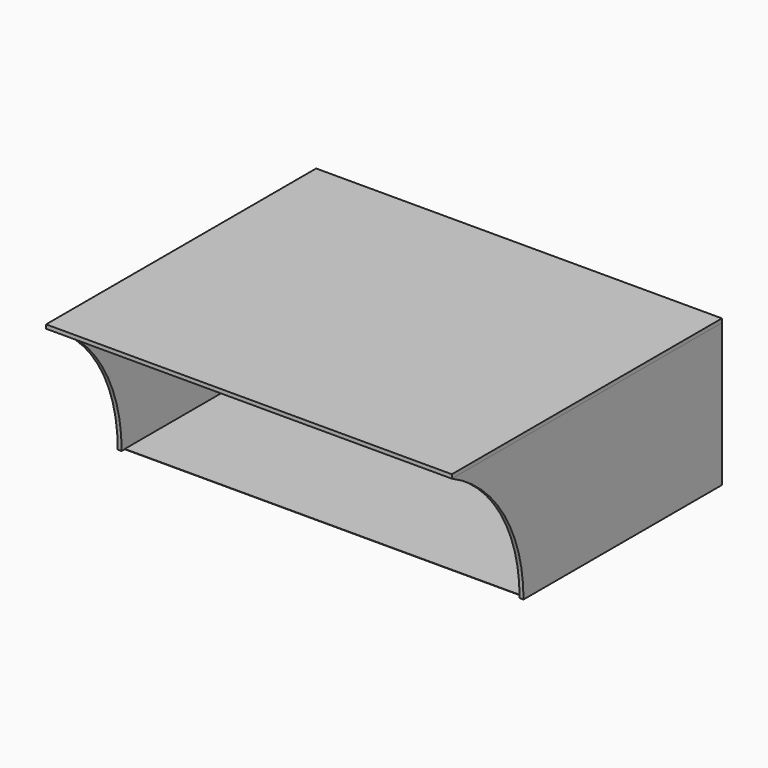
from build123d import *

# Parameters (mm, degrees)
F0_W      = 1226
F0_H      = 740
F1_DEPTH  = 1
F2_W      = 1226
F2_H      = 439
F2_H_2    = 1
F3_DEPTH  = 12
F5_W      = 12
F5_H      = 440
F6_DEPTH  = 12
F8_DEPTH  = 12
F9_W      = 1250
F9_H      = 1040
F10_DEPTH = 12


with BuildPart() as f1:
    # F0 (on Top) → F1 (new body)
    with BuildSketch(Plane.XY):
        with Locations((-9.297022, -83.584812)):
            Rectangle(F0_W, F0_H)
    extrude(amount=F1_DEPTH)


with BuildPart() as f3:
    # F2 (on face) → F3 (new body)
    with BuildSketch(Plane(origin=(0, 286.415188, 0), x_dir=(-1, 0, 0), z_dir=(0, 1, 0))):
        with Locations((9.297022, 220.5)):
            Rectangle(F2_W, F2_H)
        with Locations((9.297022, 0.5)):
            Rectangle(F2_W, F2_H_2)
    extrude(amount=F3_DEPTH)


with BuildPart() as f6:
    # F5 (on face) → F6 (new body)
    with BuildSketch(Plane(origin=(-622.297022, 0, 0), x_dir=(0, -1, 0), z_dir=(-1, 0, 0))):
        with BuildLine():
            Line((741.584812, 440), (-286.415188, 440))
            Line((-286.415188, 440), (-286.415188, 0))
            Line((-286.415188, 0), (465.584812, 0))
            ThreePointArc((465.584812, 0), (540.295233, 259.699827), (741.584812, 440))
        make_face()
        with Locations((-292.415188, 220)):
            Rectangle(F5_W, F5_H)
    extrude(amount=F6_DEPTH)


with BuildPart() as f8:
    # F7 (on face) → F8 (new body)
    with BuildSketch(Plane.YZ.offset(603.702978)):
        with BuildLine():
            ThreePointArc((-741.584812, 440), (-540.295233, 259.699827), (-465.584812, 0))
            Line((-465.584812, 0), (298.415188, 0))
            Line((298.415188, 0), (298.415188, 440))
            Line((298.415188, 440), (-741.584812, 440))
        make_face()
    extrude(amount=F8_DEPTH)


with BuildPart() as f10:
    # F9 (on face) → F10 (new body)
    with BuildSketch(Plane.XY.offset(440)):
        with Locations((-9.297022, -221.584812)):
            Rectangle(F9_W, F9_H)
    extrude(amount=F10_DEPTH)


solid = Compound([f1.part, f3.part, f6.part, f8.part, f10.part])
